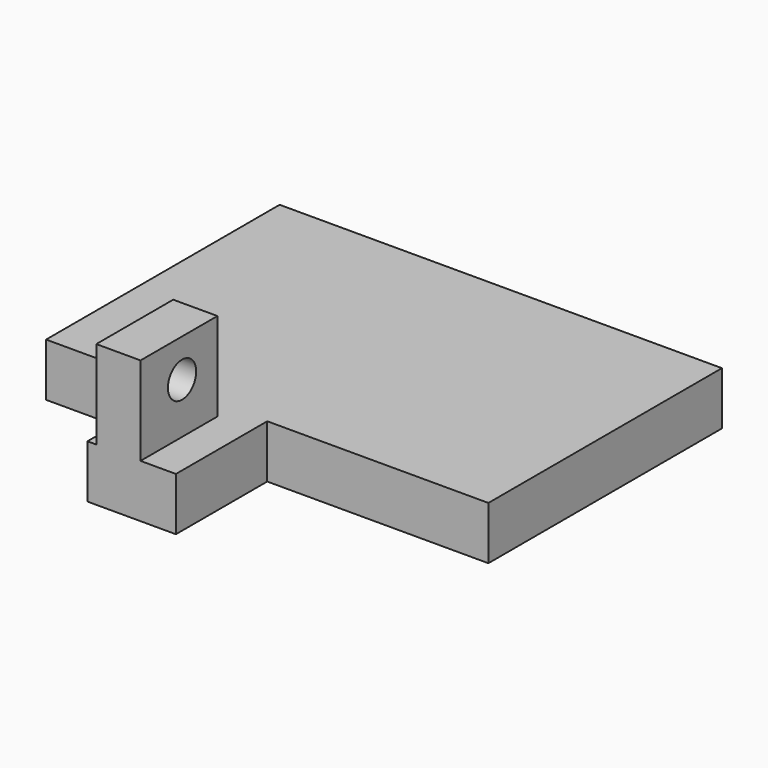
from build123d import *

# Parameters (mm, degrees)
F0_W     = 12.7
F0_H     = 27.606282
F1_DEPTH = 25.4
F2_DEPTH = 15.24
F3_R     = 5.08
F4_DEPTH = 25.4


with BuildPart() as f1:
    # F0 (on Top) → F1 (new body)
    with BuildSketch(Plane.XY):
        with Locations((-251.110267, -68.915142)):
            Rectangle(F0_W, F0_H)
    extrude(amount=F1_DEPTH)

    # F0 (on Top) → F2 (join)
    with BuildSketch(Plane.XY):
        Polygon((-171.100267, 33.879176), (-298.100267, 33.879176), (-298.100267, -49.940824), (-260.000267, -49.940824), (-234.600267, -49.940824), (-171.100267, -49.940824), align=None)
        with Locations((-251.110267, -68.915142)):
            Rectangle(F0_W, F0_H)
        Polygon((-234.600267, -49.940824), (-260.000267, -49.940824), (-260.000267, -82.718283), (-257.460267, -82.718283), (-257.460267, -55.112001), (-244.760267, -55.112001), (-244.760267, -82.718283), (-234.600267, -82.718283), align=None)
    extrude(amount=-F2_DEPTH)

    # F3 (on face) → F4 (cut)
    with BuildSketch(Plane(origin=(-257.460267, 0, 0), x_dir=(0, -1, 0), z_dir=(-1, 0, 0))):
        with Locations((67.812001, 14.478)):
            Circle(F3_R)
        with Locations((67.812001, 14.478)):
            Circle(F3_R)
    extrude(amount=-F4_DEPTH, mode=Mode.SUBTRACT)


solid = f1.part
